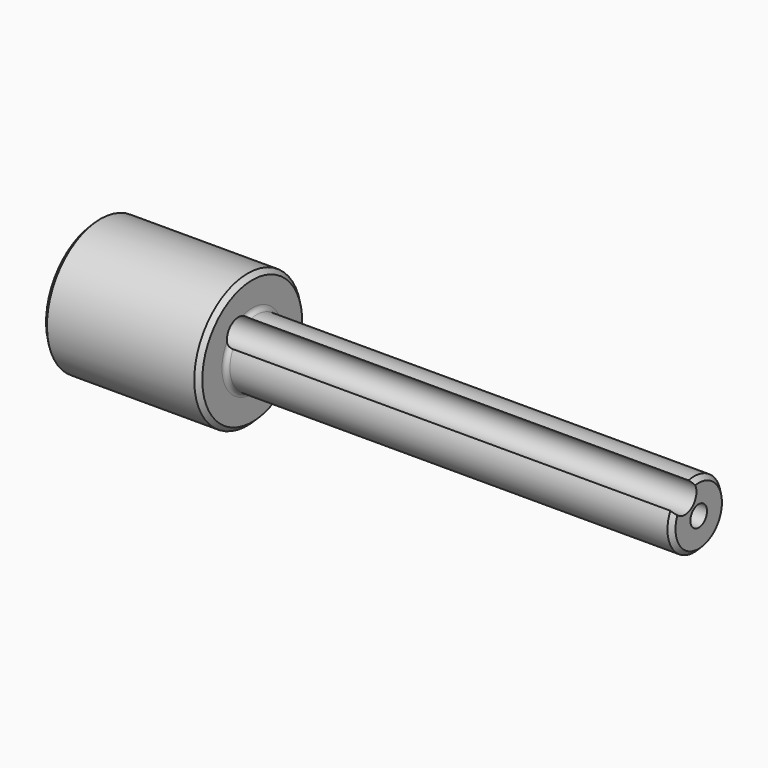
from build123d import *

# Parameters (mm, degrees)
F2_SIZE2 = 2
F2_SIZE  = 2
F3_R     = 4.652027
F4_DEPTH = 270.001
F6_R     = 6.482878
F7_DEPTH = 270.001


with BuildPart() as f1:
    # F0 (on Front) → F1 (revolve)
    with BuildSketch(Plane.XZ):
        with BuildLine():
            Line((-135, 30), (-135, 0))
            Line((-135, 0), (135, 0))
            Line((135, 0), (135, 15))
            Line((135, 15), (-63, 15))
            ThreePointArc((-63, 15), (-64.414214, 15.585786), (-65, 17))
            Line((-65, 17), (-65, 30))
            Line((-65, 30), (-135, 30))
        make_face()
    revolve(axis=Axis((9.817764, 0, 0), (1, 0, 0)))

    # F2
    f2_edges = [f1.edges().sort_by_distance(p)[0] for p in [
        (-65, 0, -30),
        (-135, 0, -30),
        (-100, 0, 30),
        (135, 0, -15),
    ]]
    chamfer(f2_edges, length=F2_SIZE, length2=F2_SIZE2)

    # F3 (on face) → F4 (cut, through all)
    with BuildSketch(Plane.YZ.offset(135)):
        Circle(F3_R)
    extrude(amount=-F4_DEPTH, mode=Mode.SUBTRACT)

    # F6 (on face) → F7 (cut, through all)
    with BuildSketch(Plane(origin=(-135, 0, 0), x_dir=(0, -1, 0), z_dir=(-1, 0, 0))):
        with Locations((7.74362, 10.037243)):
            Circle(F6_R)
    extrude(amount=-F7_DEPTH, mode=Mode.SUBTRACT)


solid = f1.part
